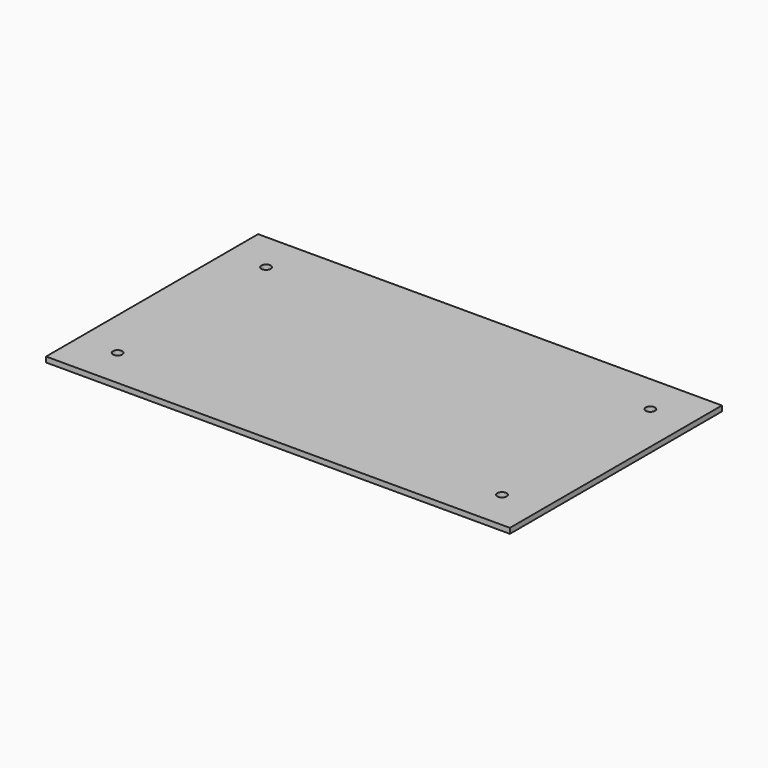
from build123d import *

# Parameters (mm, degrees)
F0_W     = 200
F0_H     = 4
F1_DEPTH = 175
F2_R     = 3.5
F3_DEPTH = 4


with BuildPart() as f1:
    # F0 (on Right) → F1 (new body, symmetric)
    with BuildSketch(Plane.YZ):
        with Locations((-100, 2)):
            Rectangle(F0_W, F0_H)
    extrude(amount=F1_DEPTH, both=True)

    # F2 (on face) → F3 (cut, through all)
    with BuildSketch(Plane.XY.offset(4)):
        with Locations((-145, -170)):
            Circle(F2_R)
        with Locations((-145, -30)):
            Circle(F2_R)
        with Locations((145, -30)):
            Circle(F2_R)
        with Locations((145, -170)):
            Circle(F2_R)
    extrude(amount=-F3_DEPTH, mode=Mode.SUBTRACT)


solid = f1.part
